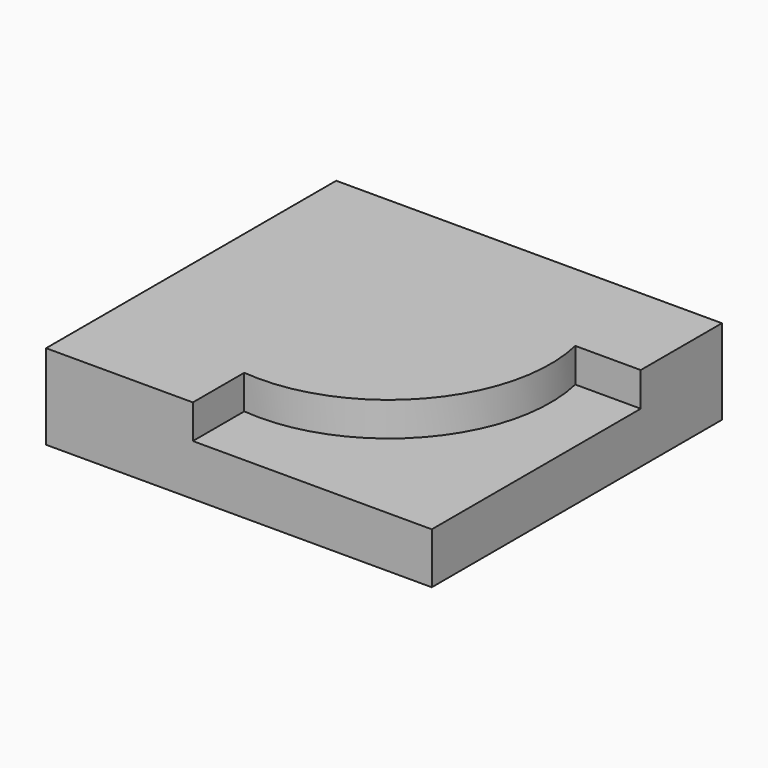
from build123d import *

# Parameters (mm, degrees)
F1_DEPTH = 25.4
F3_DEPTH = 10.16


with BuildPart() as f1:
    # F0 (on Top) → F1 (new body)
    with BuildSketch(Plane.XY):
        with BuildLine():
            Line((-27.46994, -16.17296), (-27.46994, -54.148197))
            Line((-27.46994, -54.148197), (-13.759592, -54.148197))
            Line((-13.759592, -54.148197), (-13.759592, -34.974358))
            ThreePointArc((-13.759592, -34.974358), (27.204959, -18.830319), (38.040854, 23.846464))
            Line((38.040854, 23.846464), (57.593003, 23.846464))
            Line((57.593003, 23.846464), (57.593003, 37.556812))
            Line((57.593003, 37.556812), (15.397504, 37.556812))
            ThreePointArc((15.397504, 37.556812), (17.995409, -8.481326), (-27.46994, -16.17296))
        make_face()
        with BuildLine():
            Line((-13.759592, -34.974358), (-13.759592, -54.148197))
            Line((-13.759592, -54.148197), (57.593003, -54.148197))
            Line((57.593003, -54.148197), (57.593003, 23.846464))
            Line((57.593003, 23.846464), (38.040854, 23.846464))
            ThreePointArc((38.040854, 23.846464), (27.204959, -18.830319), (-13.759592, -34.974358))
        make_face()
        with BuildLine():
            Line((-57.593003, 54.148197), (-57.593003, -54.148197))
            Line((-57.593003, -54.148197), (-27.46994, -54.148197))
            Line((-27.46994, -54.148197), (-27.46994, -16.17296))
            ThreePointArc((-27.46994, -16.17296), (17.995409, -8.481326), (15.397504, 37.556812))
            Line((15.397504, 37.556812), (57.593003, 37.556812))
            Line((57.593003, 37.556812), (57.593003, 54.148197))
            Line((57.593003, 54.148197), (-57.593003, 54.148197))
        make_face()
    extrude(amount=F1_DEPTH)

    # F2 (on face) → F3 (cut)
    with BuildSketch(Plane.XY.offset(25.4)):
        with BuildLine():
            ThreePointArc((38.040854, 23.846464), (27.204959, -18.830319), (-13.759592, -34.974358))
            Line((-13.759592, -34.974358), (-13.759592, -54.148197))
            Line((-13.759592, -54.148197), (57.593003, -54.148197))
            Line((57.593003, -54.148197), (57.593003, 23.846464))
            Line((57.593003, 23.846464), (38.040854, 23.846464))
        make_face()
    extrude(amount=-F3_DEPTH, mode=Mode.SUBTRACT)


solid = f1.part
